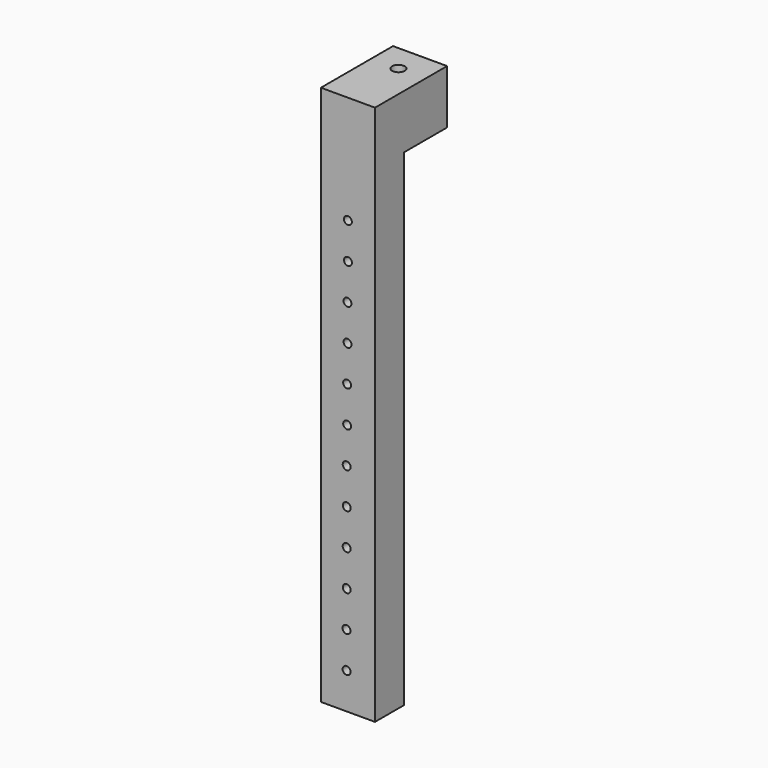
from build123d import *

# Parameters (mm, degrees)
SKETCH001_W      = 9
SKETCH001_H      = 9
PAD001_DEPTH     = 13
SKETCH002_R      = 3.5
PAD002_DEPTH     = 37
SKETCH_W         = 30
SKETCH_H         = 30
PAD_DEPTH        = 30
SKETCH003_W      = 30
SKETCH003_H      = 300
PAD003_DEPTH     = 20
HOLE_D           = 4.4
HOLE_DEPTH       = 25
HOLE_CBORE_D     = 6
HOLE_CBORE_DEPTH = 5


with BuildPart() as body001:
    # Sketch001 (on Face1 of CopyPad) → Pad001 (new body)
    with BuildSketch(Plane(origin=(0, 0, 0), x_dir=(1, 0, 0), z_dir=(0, 0, -1))):
        with Locations((15, -15)):
            Rectangle(SKETCH001_W, SKETCH001_H)
    extrude(amount=-PAD001_DEPTH)


with BuildPart() as body002:
    # Sketch002 (on Face1 of CopyPad001) → Pad002 (new body)
    with BuildSketch(Plane.XY.offset(50)):
        with Locations((15, 15)):
            Circle(SKETCH002_R)
    extrude(amount=-PAD002_DEPTH)


with BuildPart() as body:
    # Sketch → Pad (new body)
    with BuildSketch(Plane.XY):
        with Locations((15, 15)):
            Rectangle(SKETCH_W, SKETCH_H)
    extrude(amount=PAD_DEPTH)

    # Boolean: cut Body001
    add(body001.part, mode=Mode.SUBTRACT)

    # Boolean001: cut Body002
    add(body002.part, mode=Mode.SUBTRACT)


with BuildPart() as body003:
    # Sketch003 (on Face1 of CopyBoolean001) → Pad003 (new body)
    with BuildSketch(Plane.XZ):
        with Locations((15, -120)):
            Rectangle(SKETCH003_W, SKETCH003_H)
    extrude(amount=PAD003_DEPTH)

    # Hole
    with Locations(Plane(origin=(0, 0, 0), x_dir=(-1, 0, 0), z_dir=(0, 1, 0))):
        with Locations((-15, -50), (-14.956786, -30), (-14.77817, -90), (-14.734956, -70), (-14.559065, -130), (-14.515851, -110), (-14.337235, -170), (-14.294021, -150), (-14.335851, -210), (-14.292637, -190), (-14.231105, -250), (-14.187891, -230)):
            CounterBoreHole(HOLE_D / 2, HOLE_CBORE_D / 2, HOLE_CBORE_DEPTH, depth=HOLE_DEPTH)

    # Boolean002: union Body
    add(body.part)


solid = body003.part
